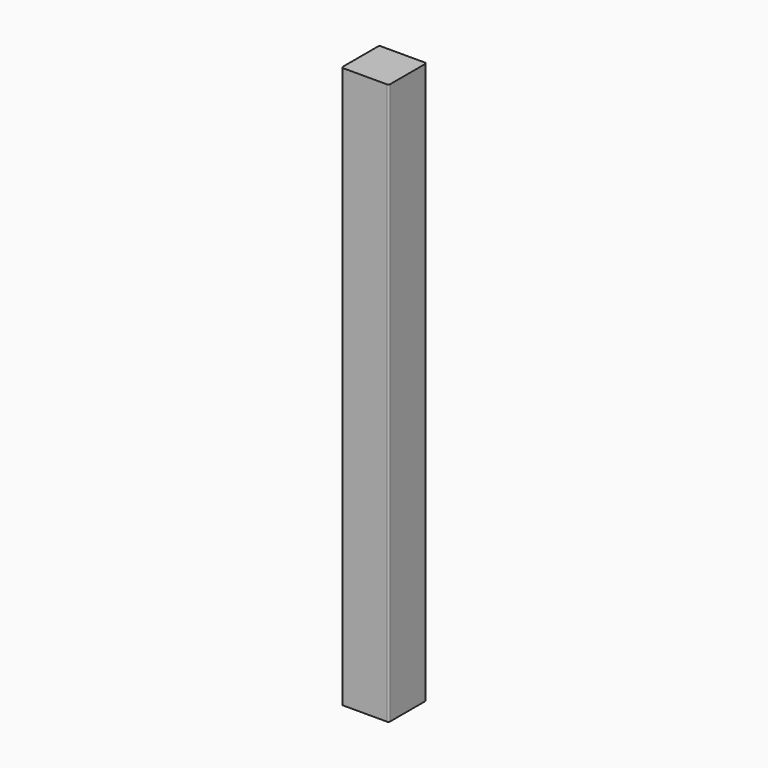
from build123d import *

# Parameters (mm, degrees)
F0_W     = 43
F0_H     = 43
F1_DEPTH = 255
F2_R     = 1.5


with BuildPart() as f1:
    # F0 (on Top) → F1 (new body, symmetric)
    with BuildSketch(Plane.XY):
        Rectangle(F0_W, F0_H)
    extrude(amount=F1_DEPTH, both=True)

    # F2
    f2_edges = [f1.edges().sort_by_distance(p)[0] for p in [
        (21.5, -21.5, 0),
        (21.5, 21.5, 0),
        (-21.5, -21.5, 0),
        (-21.5, 21.5, 0),
    ]]
    fillet(f2_edges, radius=F2_R)


solid = f1.part
